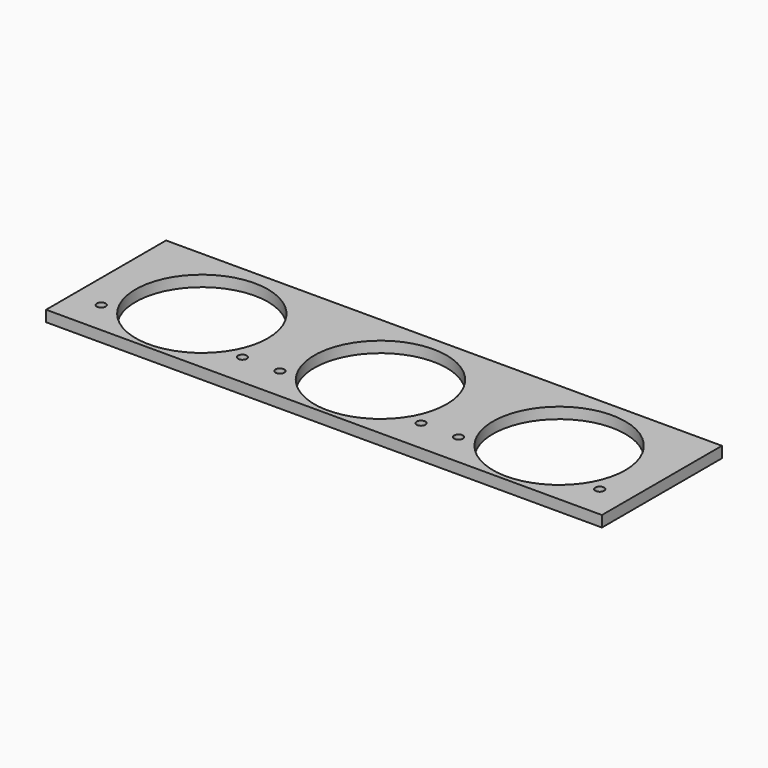
from build123d import *

# Parameters (mm, degrees)
F0_W     = 252
F0_H     = 68
F0_R     = 2
F0_R_2   = 30
F1_DEPTH = 5


with BuildPart() as f1:
    # F0 (on Top) → F1 (new body)
    with BuildSketch(Plane.XY):
        with Locations((-36.447467, 14.972708)):
            Rectangle(F0_W, F0_H)
        with Locations((-149.447467, -4.027292)):
            Circle(F0_R, mode=Mode.SUBTRACT)
        with Locations((-85.447467, -4.027292)):
            Circle(F0_R, mode=Mode.SUBTRACT)
        with Locations((-68.447467, -4.027292)):
            Circle(F0_R, mode=Mode.SUBTRACT)
        with Locations((-117.447467, 12.972708)):
            Circle(F0_R_2, mode=Mode.SUBTRACT)
        with Locations((-4.447467, -4.027292)):
            Circle(F0_R, mode=Mode.SUBTRACT)
        with Locations((12.552533, -4.027292)):
            Circle(F0_R, mode=Mode.SUBTRACT)
        with Locations((76.552533, -4.027292)):
            Circle(F0_R, mode=Mode.SUBTRACT)
        with Locations((-36.447467, 12.972708)):
            Circle(F0_R_2, mode=Mode.SUBTRACT)
        with Locations((44.552533, 12.972708)):
            Circle(F0_R_2, mode=Mode.SUBTRACT)
    extrude(amount=F1_DEPTH)


solid = f1.part
